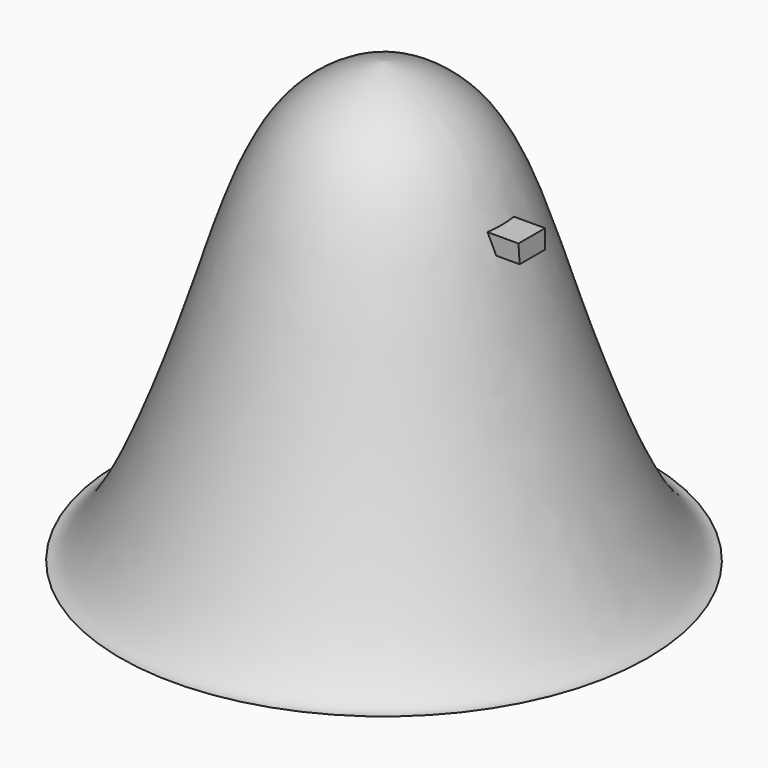
from build123d import *

# Parameters (mm, degrees)
F3_DEPTH = 0.837


with BuildPart() as f1:
    # F0 (on Front) → F1 (revolve)
    with BuildSketch(Plane.XZ):
        with BuildLine():
            add(Edge.make_bspline(
                [(0, 2.5), (0.1400355541, 2.4821229745), (0.6144631627, 2.2798917093), (0.8629174633, 1.1739506292), (1.3401302215, 0), (1.5, 0)],
                knots=[0, 0, 0, 0, 0.246099506, 0.6262631544, 1, 1, 1, 1], degree=3))
            Line((0, 2.5), (0, 0))
            Line((0, 0), (1.5, 0))
        make_face()
    revolve(axis=Axis((0, 0, 1.25), (0, 0, -1)))

    # F2 (on Right) → F3 (join)
    with BuildSketch(Plane.YZ):
        Polygon((0.098122131, 1.8951497041), (-0.0909307346, 1.8951497041), (-0.0823374285, 1.7877332866), (0.098122131, 1.7877332866), align=None)
    extrude(amount=F3_DEPTH)


solid = f1.part
